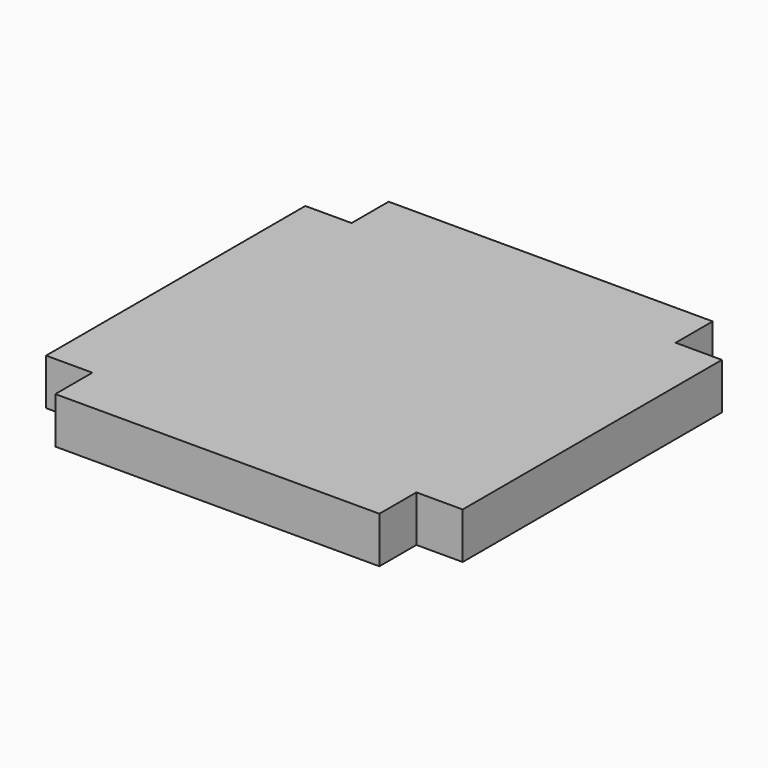
from build123d import *

# Parameters (mm, degrees)
F0_W     = 88.9
F0_H     = 12.7
F0_W_2   = 12.7
F0_H_2   = 88.9
F1_DEPTH = 12.7


with BuildPart() as f1:
    # F0 (on Top) → F1 (new body)
    with BuildSketch(Plane.XY):
        with Locations((0, 50.8)):
            Rectangle(F0_W, F0_H)
        Polygon((44.45, 44.45), (-44.45, 44.45), (-44.45, -44.45), (-44.45, -57.15), (44.45, -57.15), (44.45, -44.45), align=None)
        with Locations((-50.8, 0)):
            Rectangle(F0_W_2, F0_H_2)
        with Locations((50.8, 0)):
            Rectangle(F0_W_2, F0_H_2)
    extrude(amount=F1_DEPTH)


solid = f1.part
